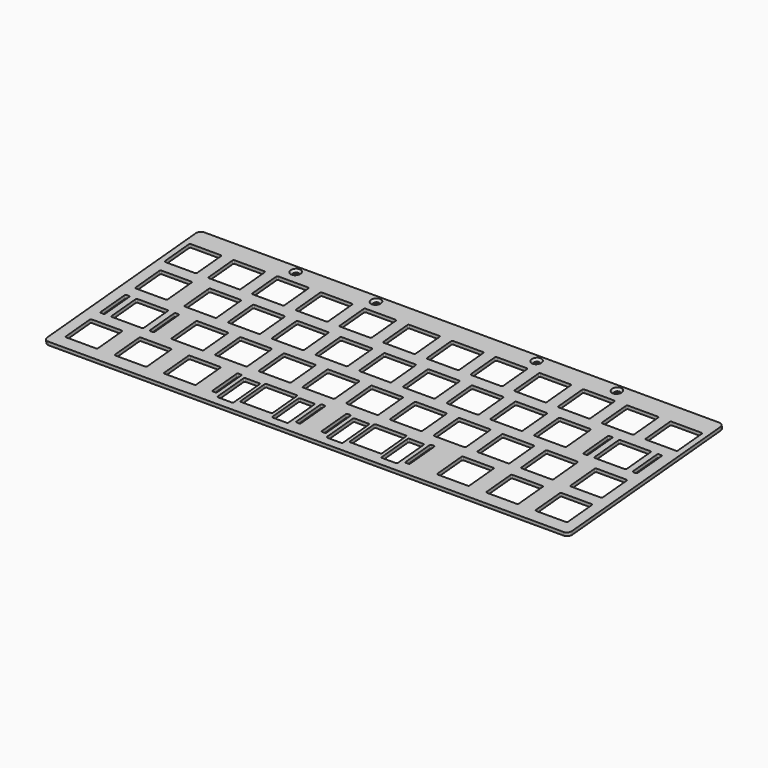
from build123d import *

# Parameters (mm, degrees)
SKETCH005_W             = 228.6
SKETCH005_H             = 85.2
PAD003_DEPTH            = 1.5
HOLE_D                  = 2.4
HOLE_CSINK_D            = 4.3
HOLE_CSINK_ANGLE        = 90
FILLET004_R             = 2
BODY001_PLACEMENT_ANGLE = 5


with BuildPart() as part:
    # Sketch005 → Pad003 (new body)
    with BuildSketch(Plane.XY):
        with Locations((114.3, -42.6)):
            Rectangle(SKETCH005_W, SKETCH005_H)
        with BuildLine():
            Line((3.025, -8.525), (16.025, -8.525))
            ThreePointArc((16.525, -9.025), (16.378553, -8.671447), (16.025, -8.525))
            Line((16.525, -9.025), (16.525, -22.025))
            ThreePointArc((16.025, -22.525), (16.378553, -22.378553), (16.525, -22.025))
            Line((3.025, -22.525), (16.025, -22.525))
            ThreePointArc((2.525, -22.025), (2.671447, -22.378553), (3.025, -22.525))
            Line((2.525, -9.025), (2.525, -22.025))
            ThreePointArc((3.025, -8.525), (2.671447, -8.671447), (2.525, -9.025))
        make_face(mode=Mode.SUBTRACT)
        with BuildLine():
            Line((22.075, -8.525), (35.075, -8.525))
            ThreePointArc((35.575, -9.025), (35.428553, -8.671447), (35.075, -8.525))
            Line((35.575, -9.025), (35.575, -22.025))
            ThreePointArc((35.075, -22.525), (35.428553, -22.378553), (35.575, -22.025))
            Line((22.075, -22.525), (35.075, -22.525))
            ThreePointArc((21.575, -22.025), (21.721447, -22.378553), (22.075, -22.525))
            Line((21.575, -9.025), (21.575, -22.025))
            ThreePointArc((22.075, -8.525), (21.721447, -8.671447), (21.575, -9.025))
        make_face(mode=Mode.SUBTRACT)
        with BuildLine():
            Line((41.125, -8.525), (54.125, -8.525))
            ThreePointArc((54.625, -9.025), (54.478553, -8.671447), (54.125, -8.525))
            Line((54.625, -9.025), (54.625, -22.025))
            ThreePointArc((54.125, -22.525), (54.478553, -22.378553), (54.625, -22.025))
            Line((41.125, -22.525), (54.125, -22.525))
            ThreePointArc((40.625, -22.025), (40.771447, -22.378553), (41.125, -22.525))
            Line((40.625, -9.025), (40.625, -22.025))
            ThreePointArc((41.125, -8.525), (40.771447, -8.671447), (40.625, -9.025))
        make_face(mode=Mode.SUBTRACT)
        with BuildLine():
            Line((60.175, -8.525), (73.175, -8.525))
            ThreePointArc((73.675, -9.025), (73.528553, -8.671447), (73.175, -8.525))
            Line((73.675, -9.025), (73.675, -22.025))
            ThreePointArc((73.175, -22.525), (73.528553, -22.378553), (73.675, -22.025))
            Line((60.175, -22.525), (73.175, -22.525))
            ThreePointArc((59.675, -22.025), (59.821447, -22.378553), (60.175, -22.525))
            Line((59.675, -9.025), (59.675, -22.025))
            ThreePointArc((60.175, -8.525), (59.821447, -8.671447), (59.675, -9.025))
        make_face(mode=Mode.SUBTRACT)
        with BuildLine():
            Line((79.225, -8.525), (92.225, -8.525))
            ThreePointArc((92.725, -9.025), (92.578553, -8.671447), (92.225, -8.525))
            Line((92.725, -9.025), (92.725, -22.025))
            ThreePointArc((92.225, -22.525), (92.578553, -22.378553), (92.725, -22.025))
            Line((79.225, -22.525), (92.225, -22.525))
            ThreePointArc((78.725, -22.025), (78.871447, -22.378553), (79.225, -22.525))
            Line((78.725, -9.025), (78.725, -22.025))
            ThreePointArc((79.225, -8.525), (78.871447, -8.671447), (78.725, -9.025))
        make_face(mode=Mode.SUBTRACT)
        with BuildLine():
            Line((98.275, -8.525), (111.275, -8.525))
            ThreePointArc((111.775, -9.025), (111.628553, -8.671447), (111.275, -8.525))
            Line((111.775, -9.025), (111.775, -22.025))
            ThreePointArc((111.275, -22.525), (111.628553, -22.378553), (111.775, -22.025))
            Line((98.275, -22.525), (111.275, -22.525))
            ThreePointArc((97.775, -22.025), (97.921447, -22.378553), (98.275, -22.525))
            Line((97.775, -9.025), (97.775, -22.025))
            ThreePointArc((98.275, -8.525), (97.921447, -8.671447), (97.775, -9.025))
        make_face(mode=Mode.SUBTRACT)
        with BuildLine():
            Line((117.325, -8.525), (130.325, -8.525))
            ThreePointArc((130.825, -9.025), (130.678553, -8.671447), (130.325, -8.525))
            Line((130.825, -9.025), (130.825, -22.025))
            ThreePointArc((130.325, -22.525), (130.678553, -22.378553), (130.825, -22.025))
            Line((117.325, -22.525), (130.325, -22.525))
            ThreePointArc((116.825, -22.025), (116.971447, -22.378553), (117.325, -22.525))
            Line((116.825, -9.025), (116.825, -22.025))
            ThreePointArc((117.325, -8.525), (116.971447, -8.671447), (116.825, -9.025))
        make_face(mode=Mode.SUBTRACT)
        with BuildLine():
            Line((136.375, -8.525), (149.375, -8.525))
            ThreePointArc((149.875, -9.025), (149.728553, -8.671447), (149.375, -8.525))
            Line((149.875, -9.025), (149.875, -22.025))
            ThreePointArc((149.375, -22.525), (149.728553, -22.378553), (149.875, -22.025))
            Line((136.375, -22.525), (149.375, -22.525))
            ThreePointArc((135.875, -22.025), (136.021447, -22.378553), (136.375, -22.525))
            Line((135.875, -9.025), (135.875, -22.025))
            ThreePointArc((136.375, -8.525), (136.021447, -8.671447), (135.875, -9.025))
        make_face(mode=Mode.SUBTRACT)
        with BuildLine():
            Line((155.425, -8.525), (168.425, -8.525))
            ThreePointArc((168.925, -9.025), (168.778553, -8.671447), (168.425, -8.525))
            Line((168.925, -9.025), (168.925, -22.025))
            ThreePointArc((168.425, -22.525), (168.778553, -22.378553), (168.925, -22.025))
            Line((155.425, -22.525), (168.425, -22.525))
            ThreePointArc((154.925, -22.025), (155.071447, -22.378553), (155.425, -22.525))
            Line((154.925, -9.025), (154.925, -22.025))
            ThreePointArc((155.425, -8.525), (155.071447, -8.671447), (154.925, -9.025))
        make_face(mode=Mode.SUBTRACT)
        with BuildLine():
            Line((174.475, -8.525), (187.475, -8.525))
            ThreePointArc((187.975, -9.025), (187.828553, -8.671447), (187.475, -8.525))
            Line((187.975, -9.025), (187.975, -22.025))
            ThreePointArc((187.475, -22.525), (187.828553, -22.378553), (187.975, -22.025))
            Line((174.475, -22.525), (187.475, -22.525))
            ThreePointArc((173.975, -22.025), (174.121447, -22.378553), (174.475, -22.525))
            Line((173.975, -9.025), (173.975, -22.025))
            ThreePointArc((174.475, -8.525), (174.121447, -8.671447), (173.975, -9.025))
        make_face(mode=Mode.SUBTRACT)
        with BuildLine():
            Line((193.525, -8.525), (206.525, -8.525))
            ThreePointArc((207.025, -9.025), (206.878553, -8.671447), (206.525, -8.525))
            Line((207.025, -9.025), (207.025, -22.025))
            ThreePointArc((206.525, -22.525), (206.878553, -22.378553), (207.025, -22.025))
            Line((193.525, -22.525), (206.525, -22.525))
            ThreePointArc((193.025, -22.025), (193.171447, -22.378553), (193.525, -22.525))
            Line((193.025, -9.025), (193.025, -22.025))
            ThreePointArc((193.525, -8.525), (193.171447, -8.671447), (193.025, -9.025))
        make_face(mode=Mode.SUBTRACT)
        with BuildLine():
            Line((212.575, -8.525), (225.575, -8.525))
            ThreePointArc((226.075, -9.025), (225.928553, -8.671447), (225.575, -8.525))
            Line((226.075, -9.025), (226.075, -22.025))
            ThreePointArc((225.575, -22.525), (225.928553, -22.378553), (226.075, -22.025))
            Line((212.575, -22.525), (225.575, -22.525))
            ThreePointArc((212.075, -22.025), (212.221447, -22.378553), (212.575, -22.525))
            Line((212.075, -9.025), (212.075, -22.025))
            ThreePointArc((212.575, -8.525), (212.221447, -8.671447), (212.075, -9.025))
        make_face(mode=Mode.SUBTRACT)
        with BuildLine():
            Line((5.40625, -27.575), (18.40625, -27.575))
            ThreePointArc((18.90625, -28.075), (18.759803, -27.721447), (18.40625, -27.575))
            Line((18.90625, -28.075), (18.90625, -41.075))
            ThreePointArc((18.40625, -41.575), (18.759803, -41.428553), (18.90625, -41.075))
            Line((5.40625, -41.575), (18.40625, -41.575))
            ThreePointArc((4.90625, -41.075), (5.052697, -41.428553), (5.40625, -41.575))
            Line((4.90625, -28.075), (4.90625, -41.075))
            ThreePointArc((5.40625, -27.575), (5.052697, -27.721447), (4.90625, -28.075))
        make_face(mode=Mode.SUBTRACT)
        with BuildLine():
            Line((26.8375, -27.575), (39.8375, -27.575))
            ThreePointArc((40.3375, -28.075), (40.191053, -27.721447), (39.8375, -27.575))
            Line((40.3375, -28.075), (40.3375, -41.075))
            ThreePointArc((39.8375, -41.575), (40.191053, -41.428553), (40.3375, -41.075))
            Line((26.8375, -41.575), (39.8375, -41.575))
            ThreePointArc((26.3375, -41.075), (26.483947, -41.428553), (26.8375, -41.575))
            Line((26.3375, -28.075), (26.3375, -41.075))
            ThreePointArc((26.8375, -27.575), (26.483947, -27.721447), (26.3375, -28.075))
        make_face(mode=Mode.SUBTRACT)
        with BuildLine():
            Line((45.8875, -27.575), (58.8875, -27.575))
            ThreePointArc((59.3875, -28.075), (59.241053, -27.721447), (58.8875, -27.575))
            Line((59.3875, -28.075), (59.3875, -41.075))
            ThreePointArc((58.8875, -41.575), (59.241053, -41.428553), (59.3875, -41.075))
            Line((45.8875, -41.575), (58.8875, -41.575))
            ThreePointArc((45.3875, -41.075), (45.533947, -41.428553), (45.8875, -41.575))
            Line((45.3875, -28.075), (45.3875, -41.075))
            ThreePointArc((45.8875, -27.575), (45.533947, -27.721447), (45.3875, -28.075))
        make_face(mode=Mode.SUBTRACT)
        with BuildLine():
            Line((64.9375, -27.575), (77.9375, -27.575))
            ThreePointArc((78.4375, -28.075), (78.291053, -27.721447), (77.9375, -27.575))
            Line((78.4375, -28.075), (78.4375, -41.075))
            ThreePointArc((77.9375, -41.575), (78.291053, -41.428553), (78.4375, -41.075))
            Line((64.9375, -41.575), (77.9375, -41.575))
            ThreePointArc((64.4375, -41.075), (64.583947, -41.428553), (64.9375, -41.575))
            Line((64.4375, -28.075), (64.4375, -41.075))
            ThreePointArc((64.9375, -27.575), (64.583947, -27.721447), (64.4375, -28.075))
        make_face(mode=Mode.SUBTRACT)
        with BuildLine():
            Line((83.9875, -27.575), (96.9875, -27.575))
            ThreePointArc((97.4875, -28.075), (97.341053, -27.721447), (96.9875, -27.575))
            Line((97.4875, -28.075), (97.4875, -41.075))
            ThreePointArc((96.9875, -41.575), (97.341053, -41.428553), (97.4875, -41.075))
            Line((83.9875, -41.575), (96.9875, -41.575))
            ThreePointArc((83.4875, -41.075), (83.633947, -41.428553), (83.9875, -41.575))
            Line((83.4875, -28.075), (83.4875, -41.075))
            ThreePointArc((83.9875, -27.575), (83.633947, -27.721447), (83.4875, -28.075))
        make_face(mode=Mode.SUBTRACT)
        with BuildLine():
            Line((103.0375, -27.575), (116.0375, -27.575))
            ThreePointArc((116.5375, -28.075), (116.391053, -27.721447), (116.0375, -27.575))
            Line((116.5375, -28.075), (116.5375, -41.075))
            ThreePointArc((116.0375, -41.575), (116.391053, -41.428553), (116.5375, -41.075))
            Line((103.0375, -41.575), (116.0375, -41.575))
            ThreePointArc((102.5375, -41.075), (102.683947, -41.428553), (103.0375, -41.575))
            Line((102.5375, -28.075), (102.5375, -41.075))
            ThreePointArc((103.0375, -27.575), (102.683947, -27.721447), (102.5375, -28.075))
        make_face(mode=Mode.SUBTRACT)
        with BuildLine():
            Line((122.0875, -27.575), (135.0875, -27.575))
            ThreePointArc((135.5875, -28.075), (135.441053, -27.721447), (135.0875, -27.575))
            Line((135.5875, -28.075), (135.5875, -41.075))
            ThreePointArc((135.0875, -41.575), (135.441053, -41.428553), (135.5875, -41.075))
            Line((122.0875, -41.575), (135.0875, -41.575))
            ThreePointArc((121.5875, -41.075), (121.733947, -41.428553), (122.0875, -41.575))
            Line((121.5875, -28.075), (121.5875, -41.075))
            ThreePointArc((122.0875, -27.575), (121.733947, -27.721447), (121.5875, -28.075))
        make_face(mode=Mode.SUBTRACT)
        with BuildLine():
            Line((141.1375, -27.575), (154.1375, -27.575))
            ThreePointArc((154.6375, -28.075), (154.491053, -27.721447), (154.1375, -27.575))
            Line((154.6375, -28.075), (154.6375, -41.075))
            ThreePointArc((154.1375, -41.575), (154.491053, -41.428553), (154.6375, -41.075))
            Line((141.1375, -41.575), (154.1375, -41.575))
            ThreePointArc((140.6375, -41.075), (140.783947, -41.428553), (141.1375, -41.575))
            Line((140.6375, -28.075), (140.6375, -41.075))
            ThreePointArc((141.1375, -27.575), (140.783947, -27.721447), (140.6375, -28.075))
        make_face(mode=Mode.SUBTRACT)
        with BuildLine():
            Line((160.1875, -27.575), (173.1875, -27.575))
            ThreePointArc((173.6875, -28.075), (173.541053, -27.721447), (173.1875, -27.575))
            Line((173.6875, -28.075), (173.6875, -41.075))
            ThreePointArc((173.1875, -41.575), (173.541053, -41.428553), (173.6875, -41.075))
            Line((160.1875, -41.575), (173.1875, -41.575))
            ThreePointArc((159.6875, -41.075), (159.833947, -41.428553), (160.1875, -41.575))
            Line((159.6875, -28.075), (159.6875, -41.075))
            ThreePointArc((160.1875, -27.575), (159.833947, -27.721447), (159.6875, -28.075))
        make_face(mode=Mode.SUBTRACT)
        with BuildLine():
            Line((179.2375, -27.575), (192.2375, -27.575))
            ThreePointArc((192.7375, -28.075), (192.591053, -27.721447), (192.2375, -27.575))
            Line((192.7375, -28.075), (192.7375, -41.075))
            ThreePointArc((192.2375, -41.575), (192.591053, -41.428553), (192.7375, -41.075))
            Line((179.2375, -41.575), (192.2375, -41.575))
            ThreePointArc((178.7375, -41.075), (178.883947, -41.428553), (179.2375, -41.575))
            Line((178.7375, -28.075), (178.7375, -41.075))
            ThreePointArc((179.2375, -27.575), (178.883947, -27.721447), (178.7375, -28.075))
        make_face(mode=Mode.SUBTRACT)
        with BuildLine():
            Line((205.43125, -27.575), (218.43125, -27.575))
            ThreePointArc((218.93125, -28.075), (218.784803, -27.721447), (218.43125, -27.575))
            Line((218.93125, -28.075), (218.93125, -41.075))
            ThreePointArc((218.43125, -41.575), (218.784803, -41.428553), (218.93125, -41.075))
            Line((205.43125, -41.575), (218.43125, -41.575))
            ThreePointArc((204.93125, -41.075), (205.077697, -41.428553), (205.43125, -41.575))
            Line((204.93125, -28.075), (204.93125, -41.075))
            ThreePointArc((205.43125, -27.575), (205.077697, -27.721447), (204.93125, -28.075))
        make_face(mode=Mode.SUBTRACT)
        with BuildLine():
            Line((200.68125, -27.575), (201.68125, -27.575))
            ThreePointArc((202.18125, -28.075), (202.034803, -27.721447), (201.68125, -27.575))
            Line((202.18125, -28.075), (202.18125, -41.075))
            ThreePointArc((201.68125, -41.575), (202.034803, -41.428553), (202.18125, -41.075))
            Line((200.68125, -41.575), (201.68125, -41.575))
            ThreePointArc((200.18125, -41.075), (200.327697, -41.428553), (200.68125, -41.575))
            Line((200.18125, -28.075), (200.18125, -41.075))
            ThreePointArc((200.68125, -27.575), (200.327697, -27.721447), (200.18125, -28.075))
        make_face(mode=Mode.SUBTRACT)
        with BuildLine():
            Line((222.18125, -27.575), (223.18125, -27.575))
            ThreePointArc((223.68125, -28.075), (223.534803, -27.721447), (223.18125, -27.575))
            Line((223.68125, -28.075), (223.68125, -41.075))
            ThreePointArc((223.18125, -41.575), (223.534803, -41.428553), (223.68125, -41.075))
            Line((222.18125, -41.575), (223.18125, -41.575))
            ThreePointArc((221.68125, -41.075), (221.827697, -41.428553), (222.18125, -41.575))
            Line((221.68125, -28.075), (221.68125, -41.075))
            ThreePointArc((222.18125, -27.575), (221.827697, -27.721447), (221.68125, -28.075))
        make_face(mode=Mode.SUBTRACT)
        with BuildLine():
            Line((10.16875, -46.625), (23.16875, -46.625))
            ThreePointArc((23.66875, -47.125), (23.522303, -46.771447), (23.16875, -46.625))
            Line((23.66875, -47.125), (23.66875, -60.125))
            ThreePointArc((23.16875, -60.625), (23.522303, -60.478553), (23.66875, -60.125))
            Line((10.16875, -60.625), (23.16875, -60.625))
            ThreePointArc((9.66875, -60.125), (9.815197, -60.478553), (10.16875, -60.625))
            Line((9.66875, -47.125), (9.66875, -60.125))
            ThreePointArc((10.16875, -46.625), (9.815197, -46.771447), (9.66875, -47.125))
        make_face(mode=Mode.SUBTRACT)
        with BuildLine():
            Line((5.41875, -46.625), (6.41875, -46.625))
            ThreePointArc((6.91875, -47.125), (6.772303, -46.771447), (6.41875, -46.625))
            Line((6.91875, -47.125), (6.91875, -60.125))
            ThreePointArc((6.41875, -60.625), (6.772303, -60.478553), (6.91875, -60.125))
            Line((5.41875, -60.625), (6.41875, -60.625))
            ThreePointArc((4.91875, -60.125), (5.065197, -60.478553), (5.41875, -60.625))
            Line((4.91875, -47.125), (4.91875, -60.125))
            ThreePointArc((5.41875, -46.625), (5.065197, -46.771447), (4.91875, -47.125))
        make_face(mode=Mode.SUBTRACT)
        with BuildLine():
            Line((26.91875, -46.625), (27.91875, -46.625))
            ThreePointArc((28.41875, -47.125), (28.272303, -46.771447), (27.91875, -46.625))
            Line((28.41875, -47.125), (28.41875, -60.125))
            ThreePointArc((27.91875, -60.625), (28.272303, -60.478553), (28.41875, -60.125))
            Line((26.91875, -60.625), (27.91875, -60.625))
            ThreePointArc((26.41875, -60.125), (26.565197, -60.478553), (26.91875, -60.625))
            Line((26.41875, -47.125), (26.41875, -60.125))
            ThreePointArc((26.91875, -46.625), (26.565197, -46.771447), (26.41875, -47.125))
        make_face(mode=Mode.SUBTRACT)
        with BuildLine():
            Line((36.3625, -46.625), (49.3625, -46.625))
            ThreePointArc((49.8625, -47.125), (49.716053, -46.771447), (49.3625, -46.625))
            Line((49.8625, -47.125), (49.8625, -60.125))
            ThreePointArc((49.3625, -60.625), (49.716053, -60.478553), (49.8625, -60.125))
            Line((36.3625, -60.625), (49.3625, -60.625))
            ThreePointArc((35.8625, -60.125), (36.008947, -60.478553), (36.3625, -60.625))
            Line((35.8625, -47.125), (35.8625, -60.125))
            ThreePointArc((36.3625, -46.625), (36.008947, -46.771447), (35.8625, -47.125))
        make_face(mode=Mode.SUBTRACT)
        with BuildLine():
            Line((55.4125, -46.625), (68.4125, -46.625))
            ThreePointArc((68.9125, -47.125), (68.766053, -46.771447), (68.4125, -46.625))
            Line((68.9125, -47.125), (68.9125, -60.125))
            ThreePointArc((68.4125, -60.625), (68.766053, -60.478553), (68.9125, -60.125))
            Line((55.4125, -60.625), (68.4125, -60.625))
            ThreePointArc((54.9125, -60.125), (55.058947, -60.478553), (55.4125, -60.625))
            Line((54.9125, -47.125), (54.9125, -60.125))
            ThreePointArc((55.4125, -46.625), (55.058947, -46.771447), (54.9125, -47.125))
        make_face(mode=Mode.SUBTRACT)
        with BuildLine():
            Line((74.4625, -46.625), (87.4625, -46.625))
            ThreePointArc((87.9625, -47.125), (87.816053, -46.771447), (87.4625, -46.625))
            Line((87.9625, -47.125), (87.9625, -60.125))
            ThreePointArc((87.4625, -60.625), (87.816053, -60.478553), (87.9625, -60.125))
            Line((74.4625, -60.625), (87.4625, -60.625))
            ThreePointArc((73.9625, -60.125), (74.108947, -60.478553), (74.4625, -60.625))
            Line((73.9625, -47.125), (73.9625, -60.125))
            ThreePointArc((74.4625, -46.625), (74.108947, -46.771447), (73.9625, -47.125))
        make_face(mode=Mode.SUBTRACT)
        with BuildLine():
            Line((93.5125, -46.625), (106.5125, -46.625))
            ThreePointArc((107.0125, -47.125), (106.866053, -46.771447), (106.5125, -46.625))
            Line((107.0125, -47.125), (107.0125, -60.125))
            ThreePointArc((106.5125, -60.625), (106.866053, -60.478553), (107.0125, -60.125))
            Line((93.5125, -60.625), (106.5125, -60.625))
            ThreePointArc((93.0125, -60.125), (93.158947, -60.478553), (93.5125, -60.625))
            Line((93.0125, -47.125), (93.0125, -60.125))
            ThreePointArc((93.5125, -46.625), (93.158947, -46.771447), (93.0125, -47.125))
        make_face(mode=Mode.SUBTRACT)
        with BuildLine():
            Line((112.5625, -46.625), (125.5625, -46.625))
            ThreePointArc((126.0625, -47.125), (125.916053, -46.771447), (125.5625, -46.625))
            Line((126.0625, -47.125), (126.0625, -60.125))
            ThreePointArc((125.5625, -60.625), (125.916053, -60.478553), (126.0625, -60.125))
            Line((112.5625, -60.625), (125.5625, -60.625))
            ThreePointArc((112.0625, -60.125), (112.208947, -60.478553), (112.5625, -60.625))
            Line((112.0625, -47.125), (112.0625, -60.125))
            ThreePointArc((112.5625, -46.625), (112.208947, -46.771447), (112.0625, -47.125))
        make_face(mode=Mode.SUBTRACT)
        with BuildLine():
            Line((131.6125, -46.625), (144.6125, -46.625))
            ThreePointArc((145.1125, -47.125), (144.966053, -46.771447), (144.6125, -46.625))
            Line((145.1125, -47.125), (145.1125, -60.125))
            ThreePointArc((144.6125, -60.625), (144.966053, -60.478553), (145.1125, -60.125))
            Line((131.6125, -60.625), (144.6125, -60.625))
            ThreePointArc((131.1125, -60.125), (131.258947, -60.478553), (131.6125, -60.625))
            Line((131.1125, -47.125), (131.1125, -60.125))
            ThreePointArc((131.6125, -46.625), (131.258947, -46.771447), (131.1125, -47.125))
        make_face(mode=Mode.SUBTRACT)
        with BuildLine():
            Line((150.6625, -46.625), (163.6625, -46.625))
            ThreePointArc((164.1625, -47.125), (164.016053, -46.771447), (163.6625, -46.625))
            Line((164.1625, -47.125), (164.1625, -60.125))
            ThreePointArc((163.6625, -60.625), (164.016053, -60.478553), (164.1625, -60.125))
            Line((150.6625, -60.625), (163.6625, -60.625))
            ThreePointArc((150.1625, -60.125), (150.308947, -60.478553), (150.6625, -60.625))
            Line((150.1625, -47.125), (150.1625, -60.125))
            ThreePointArc((150.6625, -46.625), (150.308947, -46.771447), (150.1625, -47.125))
        make_face(mode=Mode.SUBTRACT)
        with BuildLine():
            Line((169.7125, -46.625), (182.7125, -46.625))
            ThreePointArc((183.2125, -47.125), (183.066053, -46.771447), (182.7125, -46.625))
            Line((183.2125, -47.125), (183.2125, -60.125))
            ThreePointArc((182.7125, -60.625), (183.066053, -60.478553), (183.2125, -60.125))
            Line((169.7125, -60.625), (182.7125, -60.625))
            ThreePointArc((169.2125, -60.125), (169.358947, -60.478553), (169.7125, -60.625))
            Line((169.2125, -47.125), (169.2125, -60.125))
            ThreePointArc((169.7125, -46.625), (169.358947, -46.771447), (169.2125, -47.125))
        make_face(mode=Mode.SUBTRACT)
        with BuildLine():
            Line((188.7625, -46.625), (201.7625, -46.625))
            ThreePointArc((202.2625, -47.125), (202.116053, -46.771447), (201.7625, -46.625))
            Line((202.2625, -47.125), (202.2625, -60.125))
            ThreePointArc((201.7625, -60.625), (202.116053, -60.478553), (202.2625, -60.125))
            Line((188.7625, -60.625), (201.7625, -60.625))
            ThreePointArc((188.2625, -60.125), (188.408947, -60.478553), (188.7625, -60.625))
            Line((188.2625, -47.125), (188.2625, -60.125))
            ThreePointArc((188.7625, -46.625), (188.408947, -46.771447), (188.2625, -47.125))
        make_face(mode=Mode.SUBTRACT)
        with BuildLine():
            Line((210.19375, -46.625), (223.19375, -46.625))
            ThreePointArc((223.69375, -47.125), (223.547303, -46.771447), (223.19375, -46.625))
            Line((223.69375, -47.125), (223.69375, -60.125))
            ThreePointArc((223.19375, -60.625), (223.547303, -60.478553), (223.69375, -60.125))
            Line((210.19375, -60.625), (223.19375, -60.625))
            ThreePointArc((209.69375, -60.125), (209.840197, -60.478553), (210.19375, -60.625))
            Line((209.69375, -47.125), (209.69375, -60.125))
            ThreePointArc((210.19375, -46.625), (209.840197, -46.771447), (209.69375, -47.125))
        make_face(mode=Mode.SUBTRACT)
        with BuildLine():
            Line((5.40625, -65.675), (18.40625, -65.675))
            ThreePointArc((18.90625, -66.175), (18.759803, -65.821447), (18.40625, -65.675))
            Line((18.90625, -66.175), (18.90625, -79.175))
            ThreePointArc((18.40625, -79.675), (18.759803, -79.528553), (18.90625, -79.175))
            Line((5.40625, -79.675), (18.40625, -79.675))
            ThreePointArc((4.90625, -79.175), (5.052697, -79.528553), (5.40625, -79.675))
            Line((4.90625, -66.175), (4.90625, -79.175))
            ThreePointArc((5.40625, -65.675), (5.052697, -65.821447), (4.90625, -66.175))
        make_face(mode=Mode.SUBTRACT)
        with BuildLine():
            Line((26.8375, -65.675), (39.8375, -65.675))
            ThreePointArc((40.3375, -66.175), (40.191053, -65.821447), (39.8375, -65.675))
            Line((40.3375, -66.175), (40.3375, -79.175))
            ThreePointArc((39.8375, -79.675), (40.191053, -79.528553), (40.3375, -79.175))
            Line((26.8375, -79.675), (39.8375, -79.675))
            ThreePointArc((26.3375, -79.175), (26.483947, -79.528553), (26.8375, -79.675))
            Line((26.3375, -66.175), (26.3375, -79.175))
            ThreePointArc((26.8375, -65.675), (26.483947, -65.821447), (26.3375, -66.175))
        make_face(mode=Mode.SUBTRACT)
        with BuildLine():
            Line((48.26875, -65.675), (61.26875, -65.675))
            ThreePointArc((61.76875, -66.175), (61.622303, -65.821447), (61.26875, -65.675))
            Line((61.76875, -66.175), (61.76875, -79.175))
            ThreePointArc((61.26875, -79.675), (61.622303, -79.528553), (61.76875, -79.175))
            Line((48.26875, -79.675), (61.26875, -79.675))
            ThreePointArc((47.76875, -79.175), (47.915197, -79.528553), (48.26875, -79.675))
            Line((47.76875, -66.175), (47.76875, -79.175))
            ThreePointArc((48.26875, -65.675), (47.915197, -65.821447), (47.76875, -66.175))
        make_face(mode=Mode.SUBTRACT)
        with BuildLine():
            Line((81.60625, -65.675), (94.60625, -65.675))
            ThreePointArc((95.10625, -66.175), (94.959803, -65.821447), (94.60625, -65.675))
            Line((95.10625, -66.175), (95.10625, -79.175))
            ThreePointArc((94.60625, -79.675), (94.959803, -79.528553), (95.10625, -79.175))
            Line((81.60625, -79.675), (94.60625, -79.675))
            ThreePointArc((81.10625, -79.175), (81.252697, -79.528553), (81.60625, -79.675))
            Line((81.10625, -66.175), (81.10625, -79.175))
            ThreePointArc((81.60625, -65.675), (81.252697, -65.821447), (81.10625, -66.175))
        make_face(mode=Mode.SUBTRACT)
        with BuildLine():
            Line((73.16825, -66.675), (79.16825, -66.675))
            ThreePointArc((79.66825, -67.175), (79.521803, -66.821447), (79.16825, -66.675))
            Line((79.66825, -67.175), (79.66825, -81.175))
            ThreePointArc((79.16825, -81.675), (79.521803, -81.528553), (79.66825, -81.175))
            Line((73.16825, -81.675), (79.16825, -81.675))
            ThreePointArc((72.66825, -81.175), (72.814697, -81.528553), (73.16825, -81.675))
            Line((72.66825, -67.175), (72.66825, -81.175))
            ThreePointArc((73.16825, -66.675), (72.814697, -66.821447), (72.66825, -67.175))
        make_face(mode=Mode.SUBTRACT)
        with BuildLine():
            Line((97.04425, -66.675), (103.04425, -66.675))
            ThreePointArc((103.54425, -67.175), (103.397803, -66.821447), (103.04425, -66.675))
            Line((103.54425, -67.175), (103.54425, -81.175))
            ThreePointArc((103.04425, -81.675), (103.397803, -81.528553), (103.54425, -81.175))
            Line((97.04425, -81.675), (103.04425, -81.675))
            ThreePointArc((96.54425, -81.175), (96.690697, -81.528553), (97.04425, -81.675))
            Line((96.54425, -67.175), (96.54425, -81.175))
            ThreePointArc((97.04425, -66.675), (96.690697, -66.821447), (96.54425, -67.175))
        make_face(mode=Mode.SUBTRACT)
        with BuildLine():
            Line((69.35625, -65.675), (70.35625, -65.675))
            ThreePointArc((70.85625, -66.175), (70.709803, -65.821447), (70.35625, -65.675))
            Line((70.85625, -66.175), (70.85625, -79.175))
            ThreePointArc((70.35625, -79.675), (70.709803, -79.528553), (70.85625, -79.175))
            Line((69.35625, -79.675), (70.35625, -79.675))
            ThreePointArc((68.85625, -79.175), (69.002697, -79.528553), (69.35625, -79.675))
            Line((68.85625, -66.175), (68.85625, -79.175))
            ThreePointArc((69.35625, -65.675), (69.002697, -65.821447), (68.85625, -66.175))
        make_face(mode=Mode.SUBTRACT)
        with BuildLine():
            Line((105.85625, -65.675), (106.85625, -65.675))
            ThreePointArc((107.35625, -66.175), (107.209803, -65.821447), (106.85625, -65.675))
            Line((107.35625, -66.175), (107.35625, -79.175))
            ThreePointArc((106.85625, -79.675), (107.209803, -79.528553), (107.35625, -79.175))
            Line((105.85625, -79.675), (106.85625, -79.675))
            ThreePointArc((105.35625, -79.175), (105.502697, -79.528553), (105.85625, -79.675))
            Line((105.35625, -66.175), (105.35625, -79.175))
            ThreePointArc((105.85625, -65.675), (105.502697, -65.821447), (105.35625, -66.175))
        make_face(mode=Mode.SUBTRACT)
        with BuildLine():
            Line((129.23125, -65.675), (142.23125, -65.675))
            ThreePointArc((142.73125, -66.175), (142.584803, -65.821447), (142.23125, -65.675))
            Line((142.73125, -66.175), (142.73125, -79.175))
            ThreePointArc((142.23125, -79.675), (142.584803, -79.528553), (142.73125, -79.175))
            Line((129.23125, -79.675), (142.23125, -79.675))
            ThreePointArc((128.73125, -79.175), (128.877697, -79.528553), (129.23125, -79.675))
            Line((128.73125, -66.175), (128.73125, -79.175))
            ThreePointArc((129.23125, -65.675), (128.877697, -65.821447), (128.73125, -66.175))
        make_face(mode=Mode.SUBTRACT)
        with BuildLine():
            Line((120.79325, -66.675), (126.79325, -66.675))
            ThreePointArc((127.29325, -67.175), (127.146803, -66.821447), (126.79325, -66.675))
            Line((127.29325, -67.175), (127.29325, -81.175))
            ThreePointArc((126.79325, -81.675), (127.146803, -81.528553), (127.29325, -81.175))
            Line((120.79325, -81.675), (126.79325, -81.675))
            ThreePointArc((120.29325, -81.175), (120.439697, -81.528553), (120.79325, -81.675))
            Line((120.29325, -67.175), (120.29325, -81.175))
            ThreePointArc((120.79325, -66.675), (120.439697, -66.821447), (120.29325, -67.175))
        make_face(mode=Mode.SUBTRACT)
        with BuildLine():
            Line((144.66925, -66.675), (150.66925, -66.675))
            ThreePointArc((151.16925, -67.175), (151.022803, -66.821447), (150.66925, -66.675))
            Line((151.16925, -67.175), (151.16925, -81.175))
            ThreePointArc((150.66925, -81.675), (151.022803, -81.528553), (151.16925, -81.175))
            Line((144.66925, -81.675), (150.66925, -81.675))
            ThreePointArc((144.16925, -81.175), (144.315697, -81.528553), (144.66925, -81.675))
            Line((144.16925, -67.175), (144.16925, -81.175))
            ThreePointArc((144.66925, -66.675), (144.315697, -66.821447), (144.16925, -67.175))
        make_face(mode=Mode.SUBTRACT)
        with BuildLine():
            Line((116.98125, -65.675), (117.98125, -65.675))
            ThreePointArc((118.48125, -66.175), (118.334803, -65.821447), (117.98125, -65.675))
            Line((118.48125, -66.175), (118.48125, -79.175))
            ThreePointArc((117.98125, -79.675), (118.334803, -79.528553), (118.48125, -79.175))
            Line((116.98125, -79.675), (117.98125, -79.675))
            ThreePointArc((116.48125, -79.175), (116.627697, -79.528553), (116.98125, -79.675))
            Line((116.48125, -66.175), (116.48125, -79.175))
            ThreePointArc((116.98125, -65.675), (116.627697, -65.821447), (116.48125, -66.175))
        make_face(mode=Mode.SUBTRACT)
        with BuildLine():
            Line((153.48125, -65.675), (154.48125, -65.675))
            ThreePointArc((154.98125, -66.175), (154.834803, -65.821447), (154.48125, -65.675))
            Line((154.98125, -66.175), (154.98125, -79.175))
            ThreePointArc((154.48125, -79.675), (154.834803, -79.528553), (154.98125, -79.175))
            Line((153.48125, -79.675), (154.48125, -79.675))
            ThreePointArc((152.98125, -79.175), (153.127697, -79.528553), (153.48125, -79.675))
            Line((152.98125, -66.175), (152.98125, -79.175))
            ThreePointArc((153.48125, -65.675), (153.127697, -65.821447), (152.98125, -66.175))
        make_face(mode=Mode.SUBTRACT)
        with BuildLine():
            Line((167.33125, -65.675), (180.33125, -65.675))
            ThreePointArc((180.83125, -66.175), (180.684803, -65.821447), (180.33125, -65.675))
            Line((180.83125, -66.175), (180.83125, -79.175))
            ThreePointArc((180.33125, -79.675), (180.684803, -79.528553), (180.83125, -79.175))
            Line((167.33125, -79.675), (180.33125, -79.675))
            ThreePointArc((166.83125, -79.175), (166.977697, -79.528553), (167.33125, -79.675))
            Line((166.83125, -66.175), (166.83125, -79.175))
            ThreePointArc((167.33125, -65.675), (166.977697, -65.821447), (166.83125, -66.175))
        make_face(mode=Mode.SUBTRACT)
        with BuildLine():
            Line((188.7625, -65.675), (201.7625, -65.675))
            ThreePointArc((202.2625, -66.175), (202.116053, -65.821447), (201.7625, -65.675))
            Line((202.2625, -66.175), (202.2625, -79.175))
            ThreePointArc((201.7625, -79.675), (202.116053, -79.528553), (202.2625, -79.175))
            Line((188.7625, -79.675), (201.7625, -79.675))
            ThreePointArc((188.2625, -79.175), (188.408947, -79.528553), (188.7625, -79.675))
            Line((188.2625, -66.175), (188.2625, -79.175))
            ThreePointArc((188.7625, -65.675), (188.408947, -65.821447), (188.2625, -66.175))
        make_face(mode=Mode.SUBTRACT)
        with BuildLine():
            Line((210.19375, -65.675), (223.19375, -65.675))
            ThreePointArc((223.69375, -66.175), (223.547303, -65.821447), (223.19375, -65.675))
            Line((223.69375, -66.175), (223.69375, -79.175))
            ThreePointArc((223.19375, -79.675), (223.547303, -79.528553), (223.69375, -79.175))
            Line((210.19375, -79.675), (223.19375, -79.675))
            ThreePointArc((209.69375, -79.175), (209.840197, -79.528553), (210.19375, -79.675))
            Line((209.69375, -66.175), (209.69375, -79.175))
            ThreePointArc((210.19375, -65.675), (209.840197, -65.821447), (209.69375, -66.175))
        make_face(mode=Mode.SUBTRACT)
    extrude(amount=PAD003_DEPTH)

    # Hole (through all)
    with Locations(Plane.XY.offset(1.5)):
        with Locations((79.3, -3), (149.3, -3), (184.3, -3), (44.3, -3)):
            CounterSinkHole(HOLE_D / 2, HOLE_CSINK_D / 2, counter_sink_angle=HOLE_CSINK_ANGLE)

    # Fillet004
    fillet004_edges = [part.edges().sort_by_distance(p)[0] for p in [
        (228.6, 0, 0.75),
        (228.6, -85.2, 0.75),
        (0, -85.2, 0.75),
        (0, 0, 0.75),
    ]]
    fillet(fillet004_edges, radius=FILLET004_R)


with BuildPart() as part_1:
    # Body001 placement: moved
    add(part.part.moved(Location((6.7, 99.80402, 26.08926))).rotate(Axis((6.7, 99.80402, 26.08926), (1, 0, 0)), BODY001_PLACEMENT_ANGLE))


solid = part_1.part
